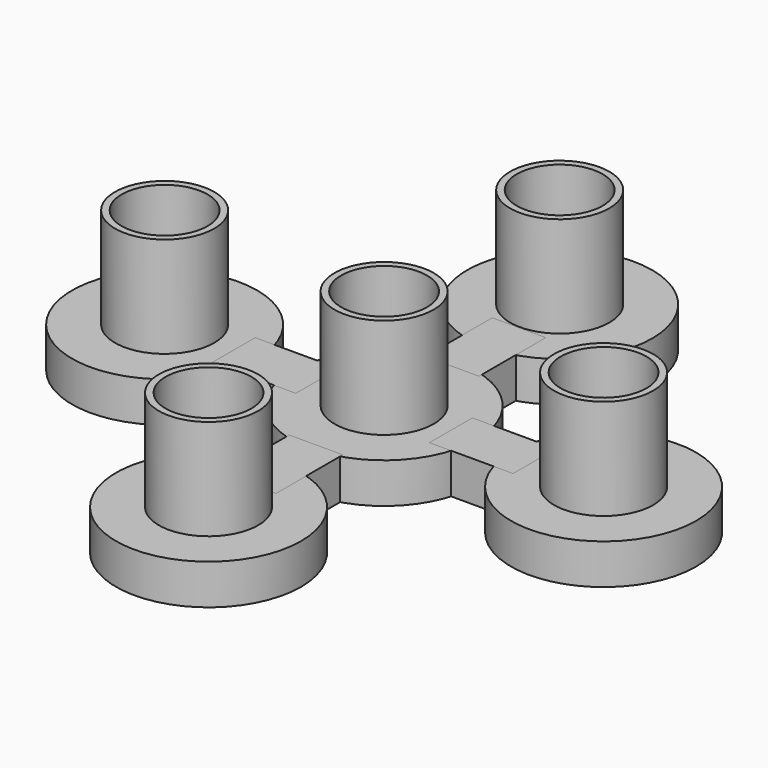
from build123d import *

# Parameters (mm, degrees)
F0_R     = 3.7
F0_R_2   = 3.2
F1_DEPTH = 7.5
F2_R     = 6.9
F2_R_2   = 3.2
F3_DEPTH = 3
F4_W     = 4
F4_H     = 6.231944
F4_W_2   = 6.231944
F4_H_2   = 4
F5_DEPTH = 3


with BuildPart() as f1:
    # F0 (on Top) → F1 (new body)
    with BuildSketch(Plane.XY):
        Circle(F0_R)
        Circle(F0_R_2, mode=Mode.SUBTRACT)
        with Locations((0, 16.36)):
            Circle(F0_R)
        with Locations((0, 16.36)):
            Circle(F0_R_2, mode=Mode.SUBTRACT)
        with Locations((0, -16.36)):
            Circle(F0_R)
        with Locations((0, -16.36)):
            Circle(F0_R_2, mode=Mode.SUBTRACT)
        with Locations((16.36, 0)):
            Circle(F0_R)
        with Locations((16.36, 0)):
            Circle(F0_R_2, mode=Mode.SUBTRACT)
        with Locations((-16.36, 0)):
            Circle(F0_R)
        with Locations((-16.36, 0)):
            Circle(F0_R_2, mode=Mode.SUBTRACT)
    extrude(amount=F1_DEPTH)


with BuildPart() as f3:
    # F2 (on Top) → F3 (new body)
    with BuildSketch(Plane.XY):
        Circle(F2_R)
        Circle(F2_R_2, mode=Mode.SUBTRACT)
        with Locations((16.36, 0)):
            Circle(F2_R)
        with Locations((16.36, 0)):
            Circle(F2_R_2, mode=Mode.SUBTRACT)
        with Locations((0, 16.36)):
            Circle(F2_R)
        with Locations((0, 16.36)):
            Circle(F2_R_2, mode=Mode.SUBTRACT)
        with Locations((0, -16.36)):
            Circle(F2_R)
        with Locations((0, -16.36)):
            Circle(F2_R_2, mode=Mode.SUBTRACT)
        with Locations((-16.36, 0)):
            Circle(F2_R)
        with Locations((-16.36, 0)):
            Circle(F2_R_2, mode=Mode.SUBTRACT)
    extrude(amount=-F3_DEPTH)


with BuildPart() as f5:
    # F4 (on face) → F5 (new body)
    with BuildSketch(Plane(origin=(0, 0, -3), x_dir=(1, 0, 0), z_dir=(0, 0, -1))):
        with Locations((0, 9.46)):
            Rectangle(F4_W, F4_H)
        with Locations((0, -9.46)):
            Rectangle(F4_W, F4_H)
        with Locations((-8.094359, 0)):
            Rectangle(F4_W_2, F4_H_2)
        with Locations((8.094359, 0)):
            Rectangle(F4_W_2, F4_H_2)
    extrude(amount=-F5_DEPTH)


solid = Compound([f1.part, f3.part, f5.part])
